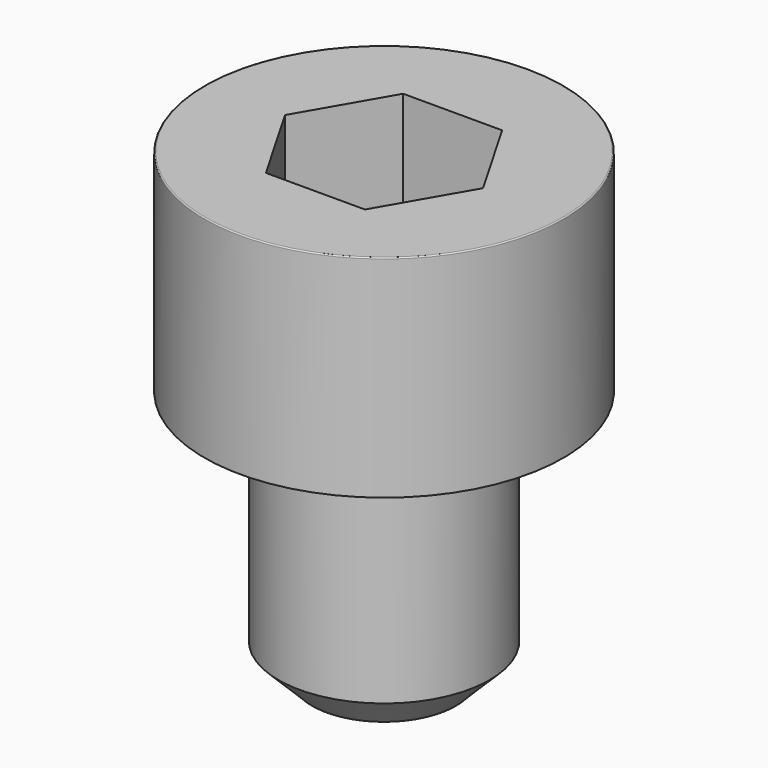
from build123d import *

# Parameters (mm, degrees)
POCKET_DEPTH = 4.06


with BuildPart() as part:
    # Sketch → Revolve (revolve)
    with BuildSketch(Plane.YZ):
        with BuildLine():
            Line((2.499, 0), (4.25, 0))
            Line((4.25, 0), (4.25, 4.97229))
            ThreePointArc((4.25, 4.97229), (4.241884, 4.991884), (4.22229, 5))
            Line((4.22229, 5), (0, 5))
            Line((0, -6), (0, 5))
            Line((1.7, -6), (0, -6))
            Line((2.5, -5.2), (1.7, -6))
            Line((2.5, -0.2), (2.5, -5.2))
            Line((2.499, 0), (2.5, -0.2))
        make_face()
    revolve(axis=Axis((0, 0, 0), (0, 0, 1)))

    # Sketch001 → Pocket (cut)
    with BuildSketch(Plane.XY.offset(5)):
        Polygon((2.344042, 0), (1.172021, 2.03), (-1.172021, 2.03), (-2.344042, 0), (-1.172021, -2.03), (1.172021, -2.03), align=None)
    extrude(amount=-POCKET_DEPTH, mode=Mode.SUBTRACT)


solid = part.part
